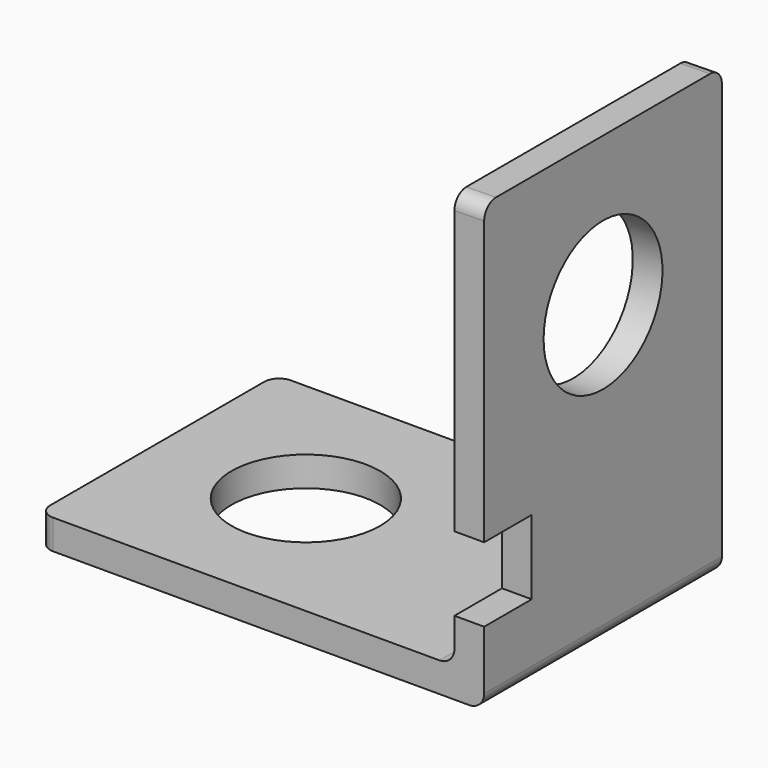
from build123d import *

# Parameters (mm, degrees)
F1_DEPTH = 20
F2_R     = 5
F3_DEPTH = 2.001
F4_R     = 5
F5_DEPTH = 2.000768
F6_W     = 4
F6_H     = 5
F7_DEPTH = 2.000768
F8_R     = 1


with BuildPart() as f1:
    # F0 (on Front) → F1 (new body)
    with BuildSketch(Plane.XZ):
        with BuildLine():
            Line((0, 2), (0, 0))
            Line((0, 0), (29, 0))
            ThreePointArc((29, 0), (29.707107, 0.292893), (30, 1))
            Line((30, 1), (30, 30))
            Line((30, 30), (28.000232, 29.969506))
            Line((28.000232, 29.969506), (28.000232, 3))
            ThreePointArc((28.000232, 3), (27.707339, 2.292893), (27.000232, 2))
            Line((27.000232, 2), (0, 2))
        make_face()
    extrude(amount=-F1_DEPTH)

    # F2 (on face) → F3 (cut, through all)
    with BuildSketch(Plane.XY.offset(2)):
        with Locations((10, 10)):
            Circle(F2_R)
    extrude(amount=-F3_DEPTH, mode=Mode.SUBTRACT)

    # F4 (on face) → F5 (cut, through all)
    with BuildSketch(Plane(origin=(28.000232, 0, 0), x_dir=(0, -1, 0), z_dir=(-1, 0, 0))):
        with Locations((-10, 19.969506)):
            Circle(F4_R)
    extrude(amount=-F5_DEPTH, mode=Mode.SUBTRACT)

    # F6 (on face) → F7 (cut, through all)
    with BuildSketch(Plane(origin=(28.000232, 0, 0), x_dir=(0, -1, 0), z_dir=(-1, 0, 0))):
        with Locations((-2, 7.469506)):
            Rectangle(F6_W, F6_H)
    extrude(amount=-F7_DEPTH, mode=Mode.SUBTRACT)

    # F8
    f8_edges = [f1.edges().sort_by_distance(p)[0] for p in [
        (0, 0, 1),
        (29.000116, 0, 29.984753),
        (0, 20, 1),
        (29.000116, 20, 29.984753),
    ]]
    fillet(f8_edges, radius=F8_R)


solid = f1.part
